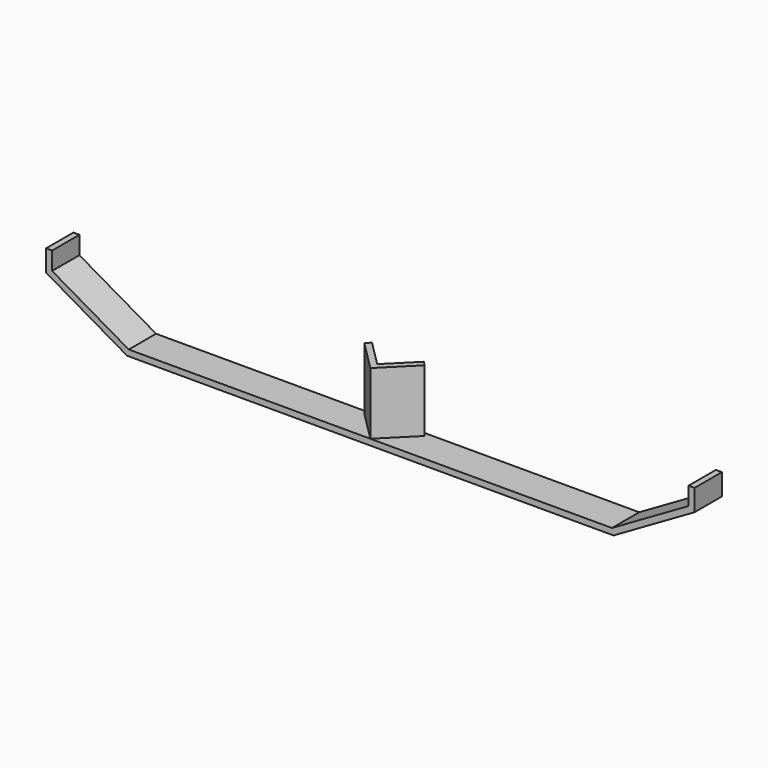
from build123d import *

# Parameters (mm, degrees)
F2_DEPTH = 92.6
F3_DEPTH = 50.8


with BuildPart() as f2:
    # F1 (on Top) → F2 (new body)
    with BuildSketch(Plane.XY):
        Polygon((452.6319431111, 224.0033788631), (497.5332237165, 179.1020982578), (542.4345043218, 224.0033788631), (536.0705432912, 230.3673398938), (497.5332237165, 191.8300203191), (458.9959041418, 230.3673398938), align=None)
    extrude(amount=F2_DEPTH)


with BuildPart() as f3:
    # F0 (on Front) → F3 (new body)
    with BuildSketch(Plane.XZ):
        Polygon((-120.65, 69.6573099777), (0, 0), (361.95, 0), (361.95, 9), (2.4115427319, 9), (-111.65, 74.8534624004), (-111.65, 101.5973099777), (-120.65, 101.5973099777), align=None)
        Polygon((361.95, 9), (361.95, 0), (723.9, 0), (844.55, 69.6573099777), (844.55, 101.5973099777), (835.55, 101.5973099777), (835.55, 74.8534624004), (721.4884572681, 9), align=None)
    extrude(amount=F3_DEPTH)


with BuildPart() as f2_1:
    # F5: moved
    add(f2.part.moved(Location((-135.5832237165, -229.9020982578, 9))))


solid = Compound([f3.part, f2_1.part])
